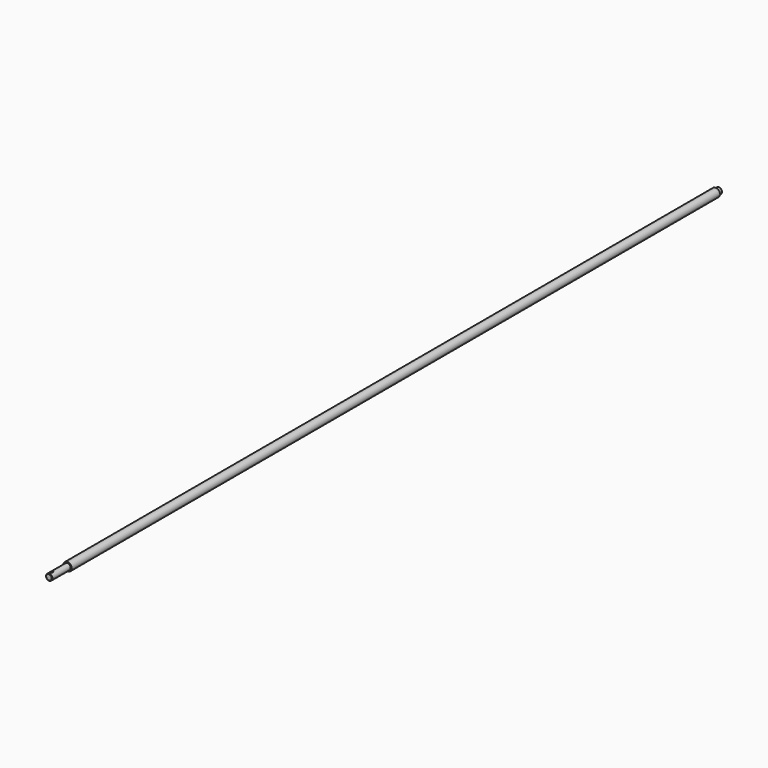
from build123d import *

# Parameters (mm, degrees)
F0_R     = 10
F1_DEPTH = 1915
F2_R     = 7.5
F3_DEPTH = 55
F4_R     = 7.5
F5_DEPTH = 10
F8_DEPTH = 2
F9_SIZE  = 1


with BuildPart() as f1:
    # F0 (on Front) → F1 (new body)
    with BuildSketch(Plane.XZ):
        Circle(F0_R)
    extrude(amount=F1_DEPTH)

    # F2 (on face) → F3 (join)
    with BuildSketch(Plane.XZ.offset(1915)):
        Circle(F2_R)
    extrude(amount=F3_DEPTH)

    # F4 (on face) → F5 (join)
    with BuildSketch(Plane(origin=(0, 0, 0), x_dir=(-1, 0, 0), z_dir=(0, 1, 0))):
        Circle(F4_R)
    extrude(amount=F5_DEPTH)

    # F7 (on offset) → F8 (cut)
    with BuildSketch(Plane.XY.offset(7.5)):
        with BuildLine():
            Line((1.997144, -1965.893146), (1.997144, -1960.106854))
            ThreePointArc((1.997144, -1960.106854), (0.000708, -1958), (-1.997219, -1960.105441))
            Line((-1.997219, -1960.105441), (-1.997219, -1965.894559))
            Line((-1.997219, -1965.894559), (-1.997219, -1966.105441))
            ThreePointArc((-1.997219, -1966.105441), (-0.000708, -1968), (1.997144, -1966.106854))
            Line((1.997144, -1966.106854), (1.997144, -1965.893146))
        make_face()
        with BuildLine():
            ThreePointArc((1.997144, -1966.106854), (2, -1966), (1.997144, -1965.893146))
            Line((1.997144, -1965.893146), (1.997144, -1966.106854))
        make_face()
        with BuildLine():
            Line((-1.997219, -1966.105441), (-1.997219, -1965.894559))
            ThreePointArc((-1.997219, -1965.894559), (-2, -1966), (-1.997219, -1966.105441))
        make_face()
    extrude(amount=-F8_DEPTH, mode=Mode.SUBTRACT)

    # F9
    f9_edges = [f1.edges().sort_by_distance(p)[0] for p in [
        (-7.5, -1970, 0),
        (7.5, 10, 0),
    ]]
    chamfer(f9_edges, length=F9_SIZE)


solid = f1.part
